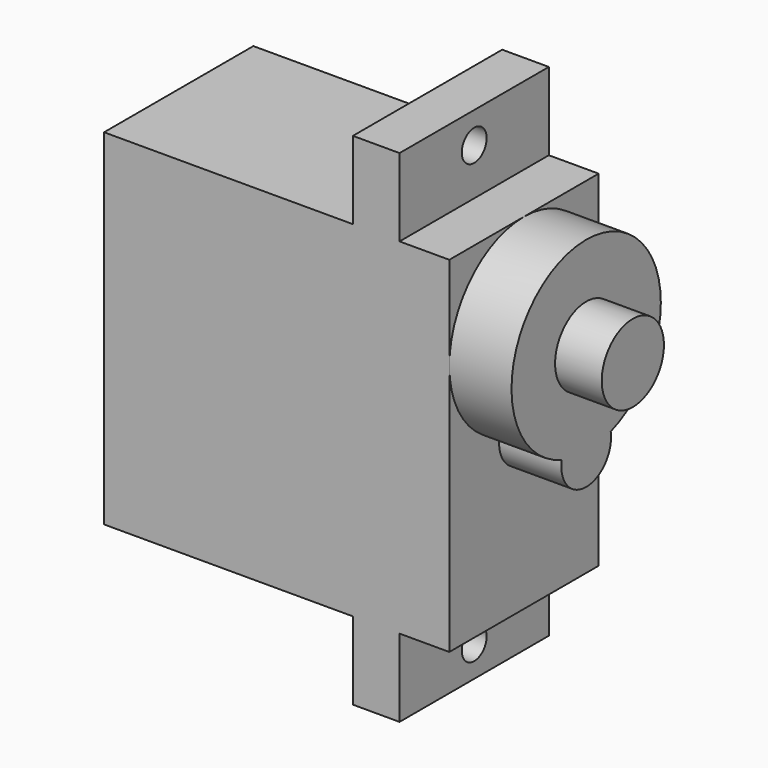
from build123d import *

# Parameters (mm, degrees)
F1_DEPTH  = 22.2
F2_W      = 3
F2_H      = 12
F3_DEPTH  = 5
F4_W      = 3
F4_H      = 12
F5_DEPTH  = 5
F7_DEPTH  = 4
F8_R      = 2.5
F9_DEPTH  = 3
F10_R     = 1
F11_DEPTH = 25


with BuildPart() as f1:
    # F0 (on Top) → F1 (new body)
    with BuildSketch(Plane.XY):
        Polygon((-11.1, 6), (-11.1, 0), (-11.1, -6), (11.1, -6), (11.1, 0), (11.1, 6), align=None)
    extrude(amount=F1_DEPTH)

    # F2 (on face) → F3 (join)
    with BuildSketch(Plane.XY.offset(22.2)):
        with Locations((6.4, 0)):
            Rectangle(F2_W, F2_H)
    extrude(amount=F3_DEPTH)

    # F4 (on face) → F5 (join)
    with BuildSketch(Plane(origin=(0, 0, 0), x_dir=(1, 0, 0), z_dir=(0, 0, -1))):
        with Locations((6.4, 0)):
            Rectangle(F4_W, F4_H)
    extrude(amount=F5_DEPTH)

    # F6 (on face) → F7 (join)
    with BuildSketch(Plane.YZ.offset(11.1)):
        with BuildLine():
            ThreePointArc((1.9720265944, 10.5333333333), (4.8904069139, 12.7238066485), (6, 16.2))
            ThreePointArc((6, 16.2), (-3.4761933515, 21.0904069139), (-1.9720265944, 10.5333333333))
            ThreePointArc((-1.9720265944, 10.5333333333), (0, 12.2), (1.9720265944, 10.5333333333))
        make_face()
        with BuildLine():
            ThreePointArc((1.9720265944, 10.5333333333), (0, 12.2), (-1.9720265944, 10.5333333333))
            ThreePointArc((-1.9720265944, 10.5333333333), (0, 10.2), (1.9720265944, 10.5333333333))
        make_face()
        with BuildLine():
            ThreePointArc((1.9720265944, 10.5333333333), (0, 10.2), (-1.9720265944, 10.5333333333))
            ThreePointArc((-1.9720265944, 10.5333333333), (-0.1672525206, 8.2070056211), (2, 10.2))
            ThreePointArc((2, 10.2), (1.9929943789, 10.3672525206), (1.9720265944, 10.5333333333))
        make_face()
    extrude(amount=F7_DEPTH)

    # F8 (on face) → F9 (join)
    with BuildSketch(Plane.YZ.offset(15.1)):
        with Locations((0, 16.2)):
            Circle(F8_R)
    extrude(amount=F9_DEPTH)

    # F10 (on face) → F11 (cut)
    with BuildSketch(Plane(origin=(4.9, 0, 0), x_dir=(0, -1, 0), z_dir=(-1, 0, 0))):
        with Locations((0, 25.2)):
            Circle(F10_R)
        with Locations((0, -3)):
            Circle(F10_R)
    extrude(amount=-F11_DEPTH, mode=Mode.SUBTRACT)


solid = f1.part
